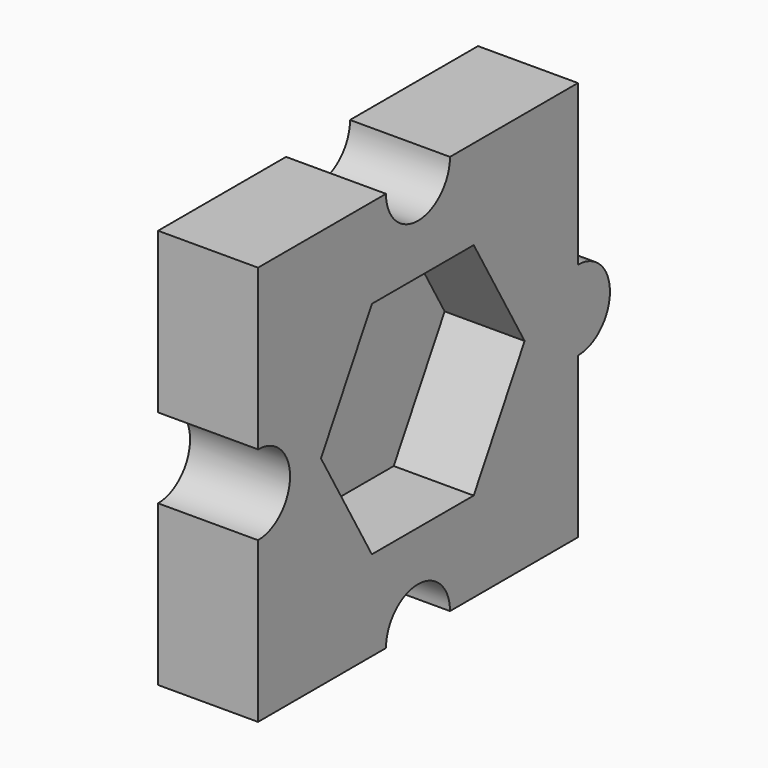
from build123d import *

# Parameters (mm, degrees)
F0_W     = 25.4
F0_H     = 25.4
F1_DEPTH = 6.35
F2_R     = 2.54
F3_DEPTH = 6.35
F4_R     = 2.54
F5_DEPTH = 6.35
F7_DEPTH = 5.08


with BuildPart() as f1:
    # F0 (on Right) → F1 (new body)
    with BuildSketch(Plane.YZ):
        with Locations((12.7, 12.7)):
            Rectangle(F0_W, F0_H)
    extrude(amount=F1_DEPTH)

    # F2 (on face) → F3 (cut)
    with BuildSketch(Plane.YZ.offset(6.35)):
        with Locations((12.7, 0)):
            Circle(F2_R)
        with Locations((0, 12.7)):
            Circle(F2_R)
        with Locations((12.7, 25.4)):
            Circle(F2_R)
    extrude(amount=-F3_DEPTH, mode=Mode.SUBTRACT)

    # F4 (on face) → F5 (join)
    with BuildSketch(Plane.YZ.offset(6.35)):
        with Locations((25.4, 12.7)):
            Circle(F4_R)
    extrude(amount=-F5_DEPTH)

    # F6 (on face) → F7 (cut)
    with BuildSketch(Plane.YZ.offset(6.35)):
        Polygon((21.166794, 12.697409), (17.12614, 19.701207), (9.040347, 19.703798), (4.995206, 12.702591), (9.03586, 5.698793), (17.121653, 5.696202), align=None)
    extrude(amount=-F7_DEPTH, mode=Mode.SUBTRACT)


solid = f1.part
